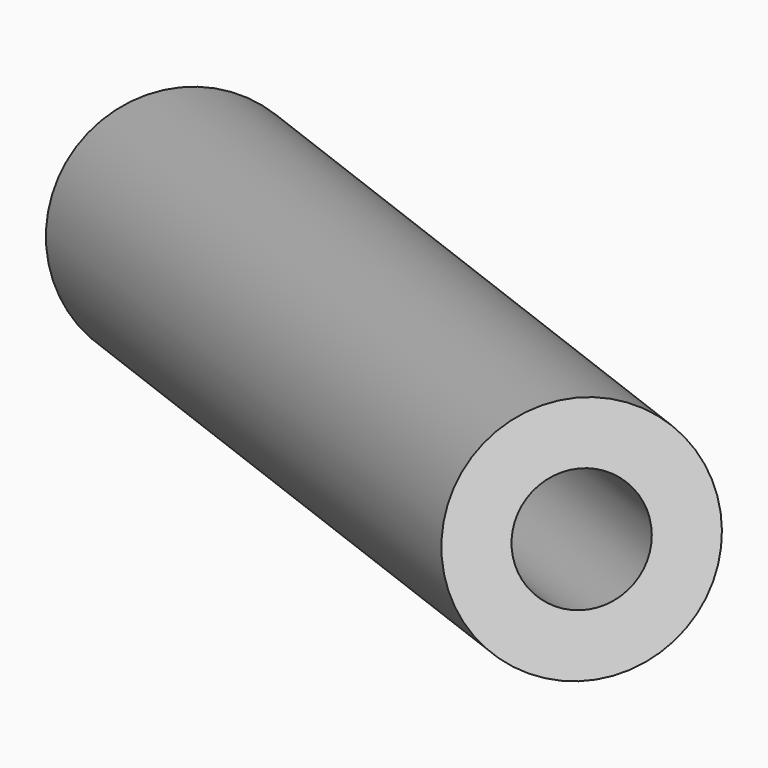
from build123d import *

# Parameters (mm, degrees)
F2_R     = 9.525
F2_R_2   = 4.7625
F3_DEPTH = 101.6


with BuildPart() as f3:
    # F2 (on face) → F3 (new body)
    with BuildSketch(Plane(origin=(-84.359033, 61.290425, -27.94), x_dir=(0.538965, 0.823196, 0.178507), z_dir=(0.78145, -0.567757, 0.258819))):
        with Locations((15.022341, -7.330928)):
            Circle(F2_R)
        with Locations((15.022341, -7.330928)):
            Circle(F2_R_2, mode=Mode.SUBTRACT)
    extrude(amount=F3_DEPTH)


solid = f3.part
